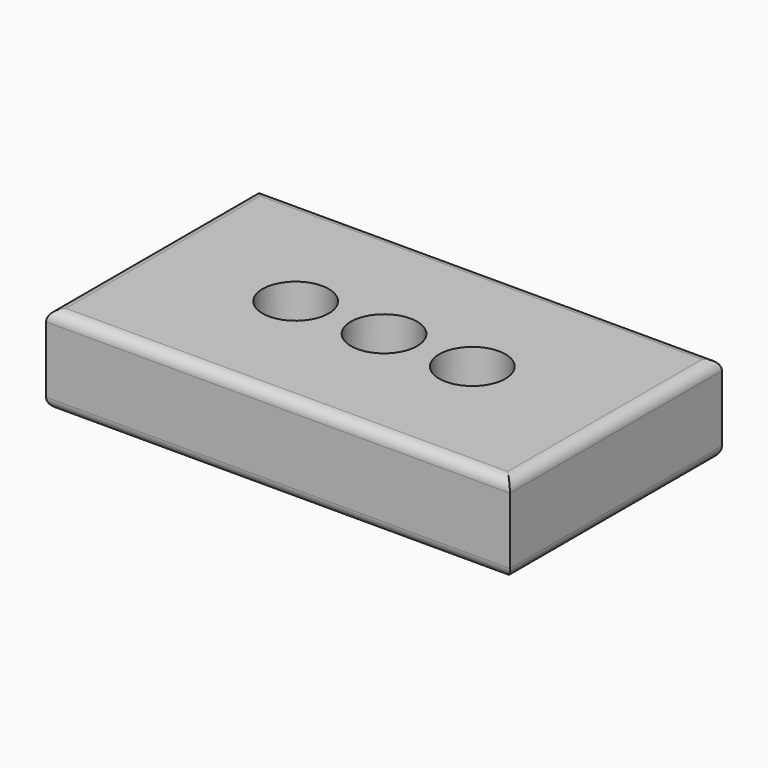
from build123d import *

# Parameters (mm, degrees)
F0_W     = 105
F0_H     = 60
F0_R     = 7.5
F1_DEPTH = 20
F2_R     = 2.5


with BuildPart() as f1:
    # F0 (on Top) → F1 (new body)
    with BuildSketch(Plane.XY):
        Rectangle(F0_W, F0_H)
        with Locations((-20, 0)):
            Circle(F0_R, mode=Mode.SUBTRACT)
        Circle(F0_R, mode=Mode.SUBTRACT)
        with Locations((20, 0)):
            Circle(F0_R, mode=Mode.SUBTRACT)
    extrude(amount=F1_DEPTH)

    # F2
    f2_edges = [f1.edges().sort_by_distance(p)[0] for p in [
        (-52.5, 0, 20),
        (0, -30, 20),
        (52.5, 0, 20),
        (0, 30, 20),
        (52.5, 0, 0),
        (0, -30, 0),
        (-52.5, 0, 0),
        (0, 30, 0),
    ]]
    fillet(f2_edges, radius=F2_R)


solid = f1.part
